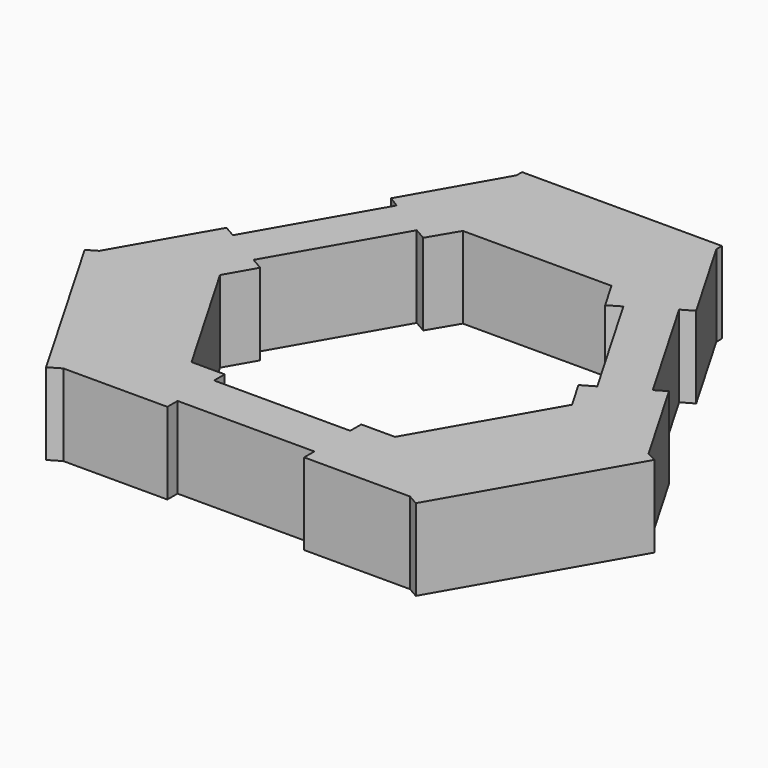
from build123d import *

# Parameters (mm, degrees)
F1_DEPTH = 17.78


with BuildPart() as f1:
    # F0 (on Top) → F1 (new body)
    with BuildSketch(Plane.XY):
        Polygon((-13.696394, 61.285373), (-25.077577, 41.368308), (-22.675894, 39.900045), (-37.590983, 13.934557), (-40.145704, 15.402039), (-51.7283, -4.761955), (-53.906213, -6.020884), (-32.011658, -43.897872), (-29.457589, -42.399032), (-6.790371, -42.399032), (-6.790371, -39.615835), (23.00878, -39.615835), (23.00878, -42.399032), (46.083391, -42.399032), (48.384397, -43.720775), (70.116099, -5.888332), (67.909494, -4.730911), (56.245869, 15.398246), (53.842249, 14.005494), (38.806576, 39.954152), (41.353882, 41.430161), (29.848992, 61.285373), (29.848992, 62.817485), (-13.696394, 62.817485), align=None)
        Polygon((-11.707831, 33.416772), (-8.02149, 39.615103), (24.353889, 39.615103), (27.974817, 33.366083), (30.683993, 34.935886), (45.609449, 9.177439), (42.803, 7.551272), (46.47806, 1.20883), (30.362, -26.847412), (23.00878, -26.847412), (23.00878, -29.851267), (-6.647467, -29.851267), (-6.647467, -26.955546), (-13.877272, -26.955546), (-30.145111, 1.119594), (-26.480239, 7.499721), (-29.165619, 9.042257), (-14.30685, 34.909699), align=None, mode=Mode.SUBTRACT)
    extrude(amount=F1_DEPTH)


solid = f1.part
